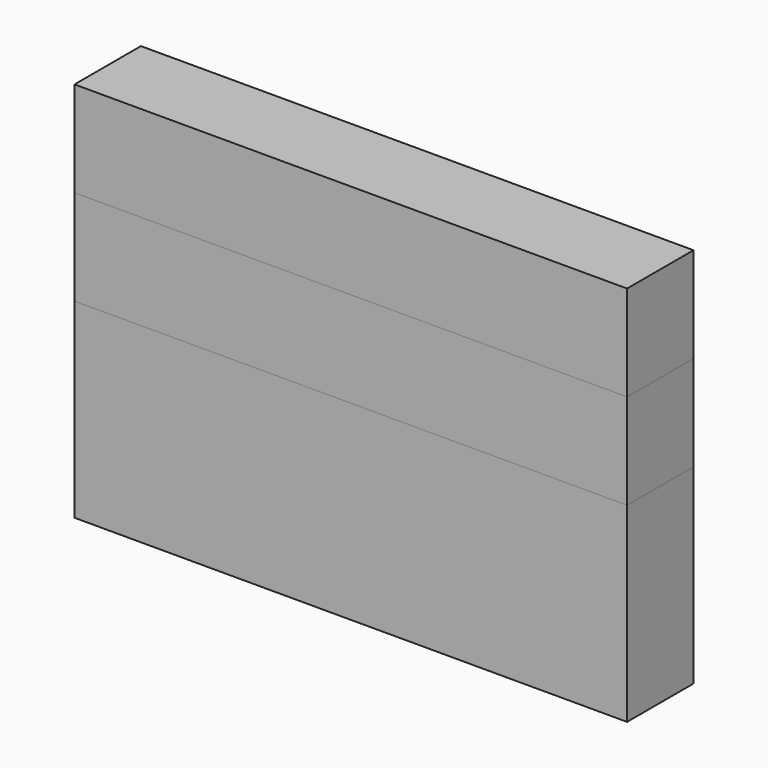
from build123d import *

# Parameters (mm, degrees)
F0_W     = 147.1512690187
F0_H     = 22.1006646752
F1_DEPTH = 25.4
F2_DEPTH = 25.4
F3_DEPTH = 25.4
F4_DEPTH = 25.4


with BuildPart() as f1:
    # F0 (on Top) → F1 (new body)
    with BuildSketch(Plane.XY):
        with Locations((0.7775165141, 4.0564509109)):
            Rectangle(F0_W, F0_H)
    extrude(amount=F1_DEPTH)

    # F2 (add): a face of the model
    f2_faces = [f1.faces().sort_by_distance(p)[0] for p in [
        (0.7775165141, 4.0564509109, 25.4),
    ]]
    extrude(f2_faces, amount=F2_DEPTH)


with BuildPart() as f3:
    # F3 (new): a face of the model
    f3_faces = [f1.part.faces().sort_by_distance(p)[0] for p in [
        (0.7775165141, 4.0564509109, 50.8),
    ]]
    extrude(f3_faces, amount=F3_DEPTH)


with BuildPart() as f4:
    # F4 (new): a face of the model
    f4_faces = [f3.part.faces().sort_by_distance(p)[0] for p in [
        (0.7775165141, 4.0564509109, 76.2),
    ]]
    extrude(f4_faces, amount=F4_DEPTH)


solid = Compound([f1.part, f3.part, f4.part])
